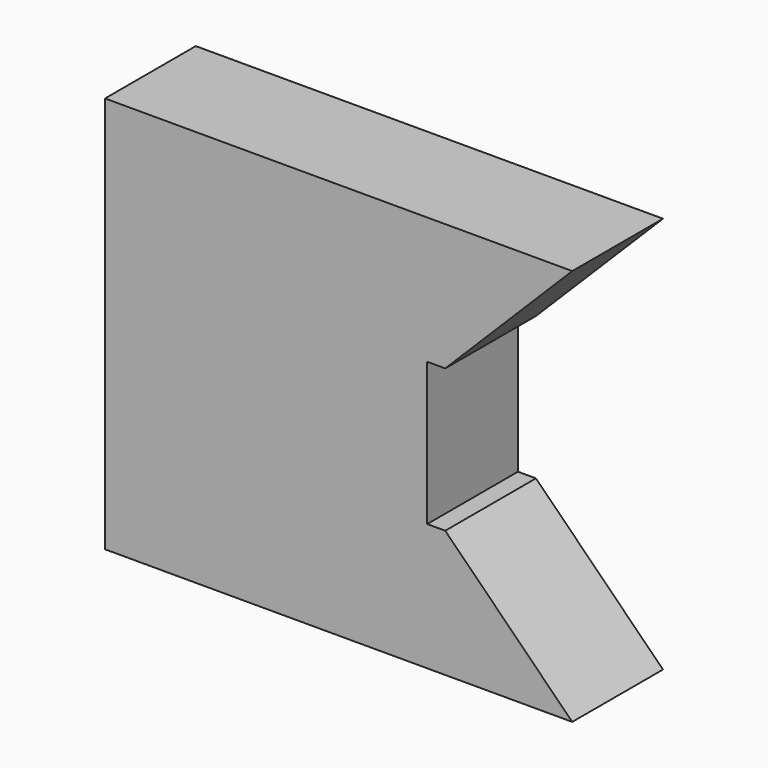
from build123d import *

# Parameters (mm, degrees)
F0_W     = 72.161538
F0_H     = 16.002
F1_DEPTH = 25.4


with BuildPart() as f1:
    # F0 (on Front) → F1 (new body)
    with BuildSketch(Plane.XZ):
        Polygon((-48.940382, 0), (-48.940382, -28.448), (55.707618, -28.448), (27.259618, 0), (23.221156, 0), align=None)
        with Locations((-12.859613, 8.001)):
            Rectangle(F0_W, F0_H)
    extrude(amount=F1_DEPTH)

    # F2: F1 across face


with BuildPart() as f1_1:
    add(f1.part)
    add(f1.part.mirror(Plane(origin=(-12.859613, -12.7, 16.002), x_dir=(1, 0, 0), z_dir=(0, 0, 1))))


solid = f1_1.part
